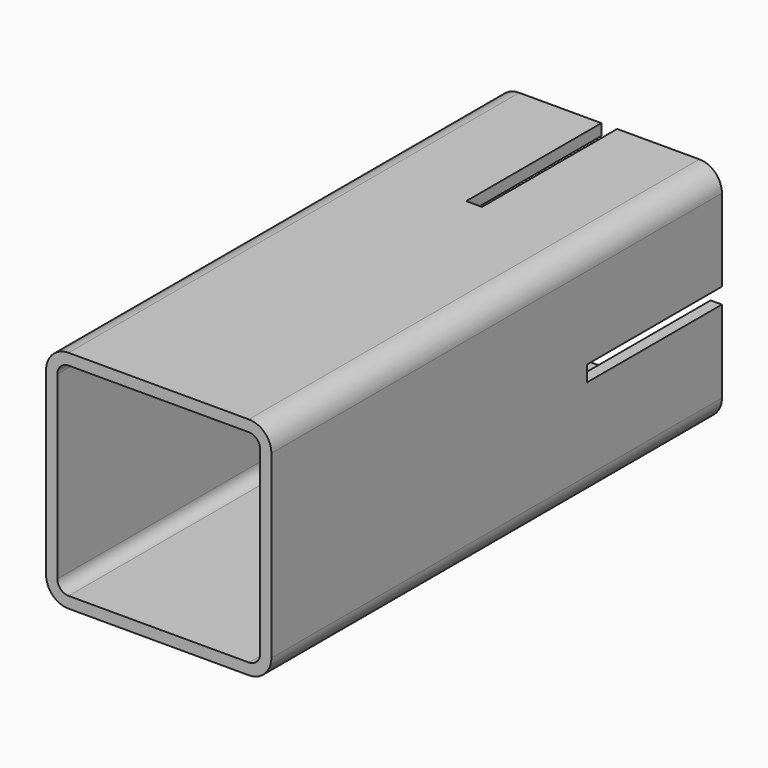
from build123d import *

# Parameters (mm, degrees)
F1_DEPTH = 500
F2_W     = 14
F2_H     = 150
F3_DEPTH = 200.001
F4_W     = 150
F4_H     = 14
F5_DEPTH = 200.001


with BuildPart() as f1:
    # F0 (on Front) → F1 (new body)
    with BuildSketch(Plane.XZ):
        with BuildLine():
            ThreePointArc((100, 80), (94.142136, 94.142136), (80, 100))
            Line((80, 100), (-80, 100))
            ThreePointArc((-80, 100), (-94.142136, 94.142136), (-100, 80))
            Line((-100, 80), (-100, -80))
            ThreePointArc((-100, -80), (-94.142136, -94.142136), (-80, -100))
            Line((-80, -100), (80, -100))
            ThreePointArc((80, -100), (94.142136, -94.142136), (100, -80))
            Line((100, -80), (100, 80))
        make_face()
        with BuildLine():
            Line((-80, 90), (80, 90))
            ThreePointArc((80, 90), (87.071068, 87.071068), (90, 80))
            Line((90, 80), (90, -80))
            ThreePointArc((90, -80), (87.071068, -87.071068), (80, -90))
            Line((80, -90), (-80, -90))
            ThreePointArc((-80, -90), (-87.071068, -87.071068), (-90, -80))
            Line((-90, -80), (-90, 80))
            ThreePointArc((-90, 80), (-87.071068, 87.071068), (-80, 90))
        make_face(mode=Mode.SUBTRACT)
    extrude(amount=F1_DEPTH)

    # F2 (on face) → F3 (cut, through all)
    with BuildSketch(Plane.XY.offset(100)):
        with Locations((0, -75)):
            Rectangle(F2_W, F2_H)
    extrude(amount=-F3_DEPTH, mode=Mode.SUBTRACT)

    # F4 (on face) → F5 (cut, through all)
    with BuildSketch(Plane.YZ.offset(100)):
        with Locations((-75, 0)):
            Rectangle(F4_W, F4_H)
    extrude(amount=-F5_DEPTH, mode=Mode.SUBTRACT)


solid = f1.part
